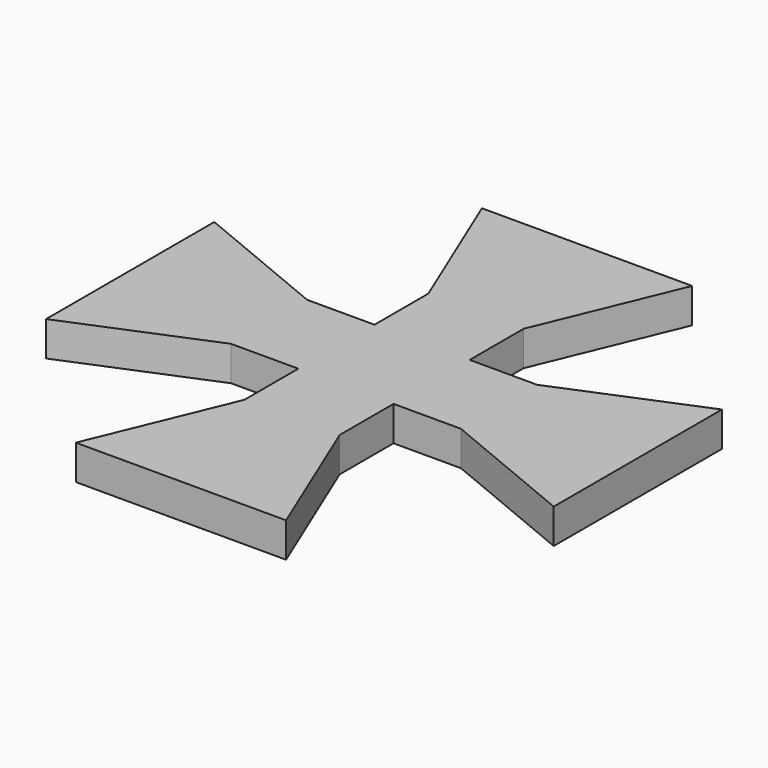
from build123d import *

# Parameters (mm, degrees)
F1_DEPTH = 10.414


with BuildPart() as f1:
    # F0 (on Top) → F1 (new body)
    with BuildSketch(Plane.XY):
        Polygon((31.539835, 76.143898), (-31.539835, 76.143898), (-14.285769, 34.488898), (-14.285769, 14.285769), (-34.488898, 14.285769), (-76.143898, 31.539835), (-76.143898, -31.539835), (-34.488898, -14.285769), (-14.285769, -14.285769), (-14.285769, -34.488898), (-31.539835, -76.143898), (31.539835, -76.143898), (14.285769, -34.488898), (14.285769, -14.285769), (34.488898, -14.285769), (76.143898, -31.539835), (76.143898, 31.539835), (34.488898, 14.285769), (14.285769, 14.285769), (14.285769, 34.488898), align=None)
    extrude(amount=F1_DEPTH)


solid = f1.part
